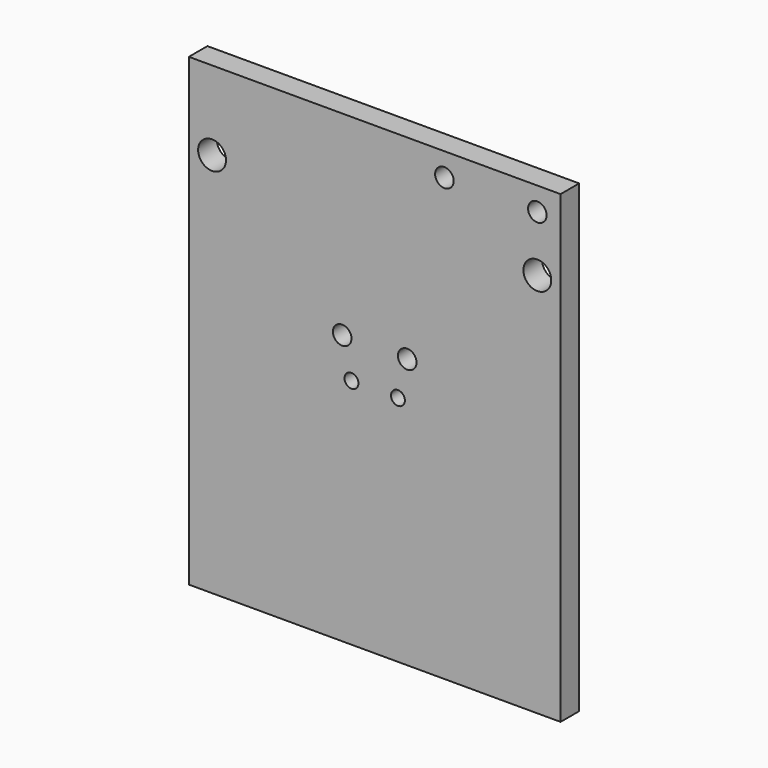
from build123d import *

# Parameters (mm, degrees)
F0_W     = 80
F0_H     = 5
F1_DEPTH = 100
F2_R     = 3
F3_DEPTH = 25
F4_R     = 1.5
F5_DEPTH = 25
F6_R     = 2
F7_DEPTH = 25
F8_R     = 2
F9_DEPTH = 25


with BuildPart() as f1:
    # F0 (on Top) → F1 (new body)
    with BuildSketch(Plane.XY):
        with Locations((40, 2.5)):
            Rectangle(F0_W, F0_H)
    extrude(amount=F1_DEPTH)

    # F2 (on face) → F3 (cut)
    with BuildSketch(Plane(origin=(0, 5, 0), x_dir=(-1, 0, 0), z_dir=(0, 1, 0))):
        with Locations((-5, 83)):
            Circle(F2_R)
        with Locations((-75, 83)):
            Circle(F2_R)
    extrude(amount=-F3_DEPTH, mode=Mode.SUBTRACT)

    # F4 (on face) → F5 (cut)
    with BuildSketch(Plane.XZ):
        with Locations((45, 50)):
            Circle(F4_R)
        with Locations((35, 50)):
            Circle(F4_R)
    extrude(amount=-F5_DEPTH, mode=Mode.SUBTRACT)

    # F6 (on face) → F7 (cut)
    with BuildSketch(Plane.XZ):
        with Locations((75, 95)):
            Circle(F6_R)
        with Locations((55, 95)):
            Circle(F6_R)
    extrude(amount=-F7_DEPTH, mode=Mode.SUBTRACT)

    # F8 (on face) → F9 (cut)
    with BuildSketch(Plane.XZ):
        with Locations((33, 58)):
            Circle(F8_R)
        with Locations((47, 58)):
            Circle(F8_R)
    extrude(amount=-F9_DEPTH, mode=Mode.SUBTRACT)


solid = f1.part
